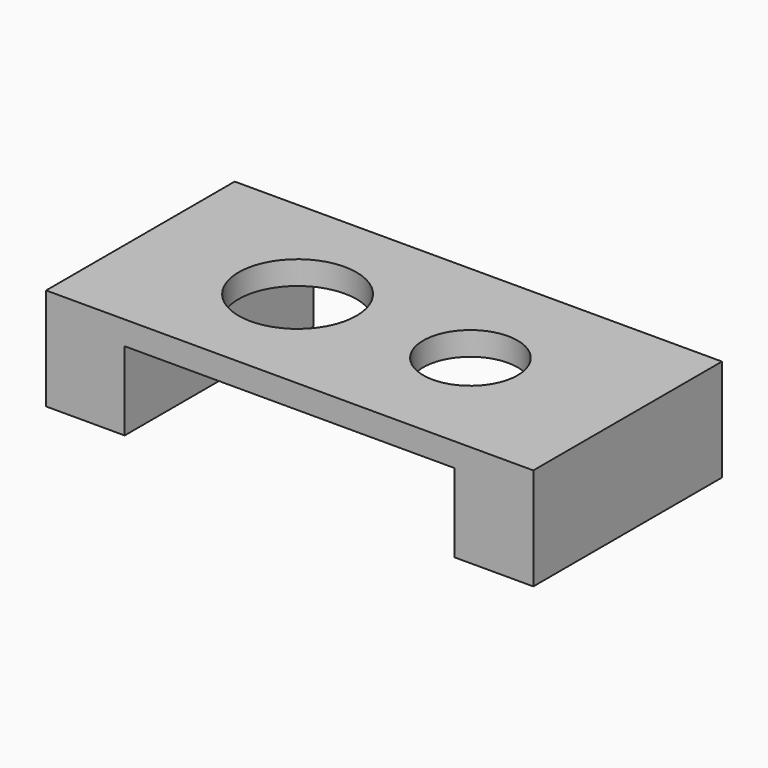
from build123d import *

# Parameters (mm, degrees)
F1_DEPTH = 30
F2_R     = 7.5
F2_R_2   = 6
F3_DEPTH = 13.001


with BuildPart() as f1:
    # F0 (on Front) → F1 (new body)
    with BuildSketch(Plane.XZ):
        Polygon((62, 0), (0, 0), (0, -13), (10, -13), (10, -3), (52, -3), (52, -13), (62, -13), align=None)
    extrude(amount=F1_DEPTH)

    # F2 (on Top) → F3 (cut, through all)
    with BuildSketch(Plane.XY):
        with Locations((20, -15)):
            Circle(F2_R)
        with Locations((42, -15)):
            Circle(F2_R_2)
    extrude(amount=-F3_DEPTH, mode=Mode.SUBTRACT)


solid = f1.part
